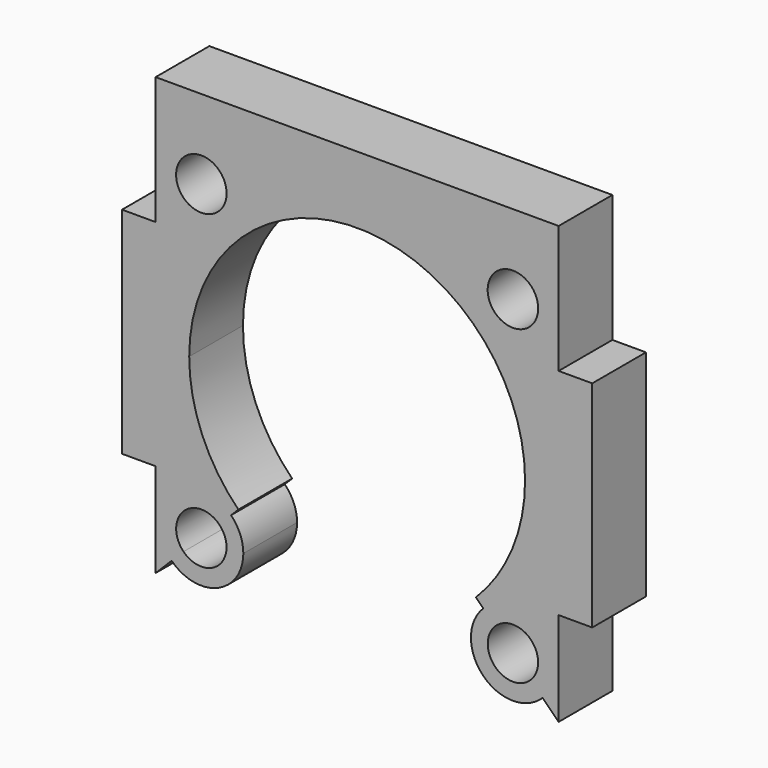
from build123d import *

# Parameters (mm, degrees)
F0_W     = 1.5875
F0_H     = 10.16
F0_R     = 1.1938
F1_DEPTH = 3.175


with BuildPart() as f1:
    # F0 (on Front) → F1 (new body)
    with BuildSketch(Plane.XZ):
        with Locations((-10.31875, 0)):
            Rectangle(F0_W, F0_H)
        with Locations((10.31875, 0)):
            Rectangle(F0_W, F0_H)
        with BuildLine():
            ThreePointArc((-8.7669750382, -8.7669750382), (-9.3481850193, -7.3638100193), (-8.7669750382, -5.9606450004))
            Line((-8.7669750382, -5.9606450004), (-9.525, -5.2026200386))
            Line((-9.525, -5.2026200386), (-9.525, -9.525))
            Line((-9.525, -9.525), (-8.7669750382, -8.7669750382))
        make_face()
        with BuildLine():
            Line((9.525, -5.2026200386), (8.7669750382, -5.9606450004))
            ThreePointArc((8.7669750382, -5.9606450004), (9.1971334666, -6.6044225832), (9.3481850193, -7.3638100193))
            ThreePointArc((9.3481850193, -7.3638100193), (9.1971334666, -8.1231974554), (8.7669750382, -8.7669750382))
            Line((8.7669750382, -8.7669750382), (9.525, -9.525))
            Line((9.525, -9.525), (9.525, -5.2026200386))
        make_face()
        Polygon((-7.9375, -5.08), (-7.9375, 0), (-7.9375, 5.08), (-9.525, 5.08), (-9.525, -5.08), align=None)
        Polygon((7.9375, 5.08), (7.9375, 0), (7.9375, -5.08), (9.525, -5.08), (9.525, 5.08), align=None)
        with BuildLine():
            Line((-7.9375, 5.08), (-7.9375, 0))
            ThreePointArc((-7.9375, 0), (0, 7.9375), (7.9375, 0))
            Line((7.9375, 0), (7.9375, 5.08))
            Line((7.9375, 5.08), (9.525, 5.08))
            Line((9.525, 5.08), (9.525, 9.525))
            Line((9.525, 9.525), (9.525, 11.1125))
            Line((9.525, 11.1125), (-9.525, 11.1125))
            Line((-9.525, 11.1125), (-9.525, 9.525))
            Line((-9.525, 9.525), (-9.525, 5.08))
            Line((-9.525, 5.08), (-7.9375, 5.08))
        make_face()
        with Locations((-7.3638100193, 7.3638100193)):
            Circle(F0_R, mode=Mode.SUBTRACT)
        with Locations((7.3638100193, 7.3638100193)):
            Circle(F0_R, mode=Mode.SUBTRACT)
        with BuildLine():
            Line((-5.9606450004, -5.9606450004), (-5.6126600757, -5.6126600757))
            ThreePointArc((-5.6126600757, -5.6126600757), (-7.3332937893, -3.0375497444), (-7.9375, 0))
            Line((-7.9375, 0), (-7.9375, -5.08))
            Line((-7.9375, -5.08), (-9.525, -5.08))
            Line((-9.525, -5.08), (-9.525, -5.2026200386))
            Line((-9.525, -5.2026200386), (-8.7669750382, -5.9606450004))
            ThreePointArc((-8.7669750382, -5.9606450004), (-7.3638100193, -5.3794350193), (-5.9606450004, -5.9606450004))
        make_face()
        with BuildLine():
            ThreePointArc((7.9375, 0), (7.3332937893, -3.0375497444), (5.6126600757, -5.6126600757))
            Line((5.6126600757, -5.6126600757), (5.9606450004, -5.9606450004))
            ThreePointArc((5.9606450004, -5.9606450004), (7.3638100193, -5.3794350193), (8.7669750382, -5.9606450004))
            Line((8.7669750382, -5.9606450004), (9.525, -5.2026200386))
            Line((9.525, -5.2026200386), (9.525, -5.08))
            Line((9.525, -5.08), (7.9375, -5.08))
            Line((7.9375, -5.08), (7.9375, 0))
        make_face()
        with BuildLine():
            ThreePointArc((-5.3794350193, -7.3638100193), (-5.5304865719, -6.6044225832), (-5.9606450004, -5.9606450004))
            Line((-5.9606450004, -5.9606450004), (-6.5219110079, -6.5219110079))
            ThreePointArc((-6.5219110079, -6.5219110079), (-6.2638159509, -6.9081775576), (-6.1731850193, -7.3638100193))
            ThreePointArc((-6.1731850193, -7.3638100193), (-6.9081775576, -8.4638040877), (-8.2057090306, -8.2057090306))
            Line((-8.2057090306, -8.2057090306), (-8.7669750382, -8.7669750382))
            ThreePointArc((-8.7669750382, -8.7669750382), (-6.6044225832, -9.1971334666), (-5.3794350193, -7.3638100193))
        make_face()
        with BuildLine():
            Line((-8.2057090306, -6.5219110079), (-8.7669750382, -5.9606450004))
            ThreePointArc((-8.7669750382, -5.9606450004), (-9.3481850193, -7.3638100193), (-8.7669750382, -8.7669750382))
            Line((-8.7669750382, -8.7669750382), (-8.2057090306, -8.2057090306))
            ThreePointArc((-8.2057090306, -8.2057090306), (-8.5544350193, -7.3638100193), (-8.2057090306, -6.5219110079))
        make_face()
        with BuildLine():
            Line((-6.5219110079, -6.5219110079), (-5.9606450004, -5.9606450004))
            ThreePointArc((-5.9606450004, -5.9606450004), (-7.3638100193, -5.3794350193), (-8.7669750382, -5.9606450004))
            Line((-8.7669750382, -5.9606450004), (-8.2057090306, -6.5219110079))
            ThreePointArc((-8.2057090306, -6.5219110079), (-7.3638100193, -6.1731850193), (-6.5219110079, -6.5219110079))
        make_face()
        with BuildLine():
            ThreePointArc((8.7669750382, -5.9606450004), (7.3638100193, -5.3794350193), (5.9606450004, -5.9606450004))
            Line((5.9606450004, -5.9606450004), (6.5219110079, -6.5219110079))
            ThreePointArc((6.5219110079, -6.5219110079), (7.3638100193, -6.1731850193), (8.2057090306, -6.5219110079))
            Line((8.2057090306, -6.5219110079), (8.7669750382, -5.9606450004))
        make_face()
        with BuildLine():
            ThreePointArc((9.3481850193, -7.3638100193), (9.1971334666, -6.6044225832), (8.7669750382, -5.9606450004))
            Line((8.7669750382, -5.9606450004), (8.2057090306, -6.5219110079))
            ThreePointArc((8.2057090306, -6.5219110079), (8.4638040877, -6.9081775576), (8.5544350193, -7.3638100193))
            ThreePointArc((8.5544350193, -7.3638100193), (8.4638040877, -7.8194424809), (8.2057090306, -8.2057090306))
            Line((8.2057090306, -8.2057090306), (8.7669750382, -8.7669750382))
            ThreePointArc((8.7669750382, -8.7669750382), (9.1971334666, -8.1231974554), (9.3481850193, -7.3638100193))
        make_face()
        with BuildLine():
            Line((6.5219110079, -6.5219110079), (5.9606450004, -5.9606450004))
            ThreePointArc((5.9606450004, -5.9606450004), (5.9606450004, -8.7669750382), (8.7669750382, -8.7669750382))
            Line((8.7669750382, -8.7669750382), (8.2057090306, -8.2057090306))
            ThreePointArc((8.2057090306, -8.2057090306), (6.5219110079, -8.2057090306), (6.5219110079, -6.5219110079))
        make_face()
    extrude(amount=-F1_DEPTH)


solid = f1.part
